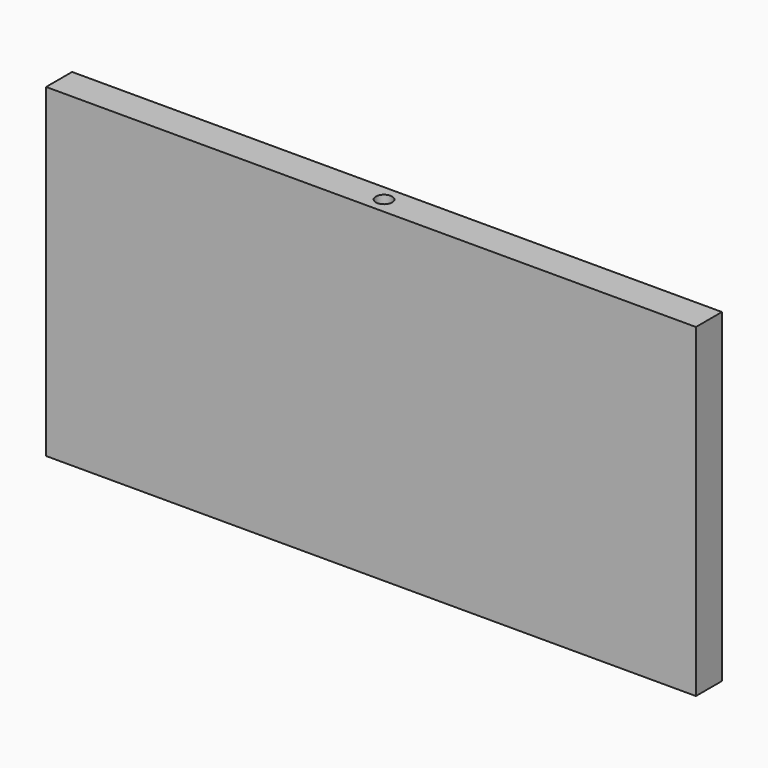
from build123d import *

# Parameters (mm, degrees)
F0_W     = 200
F0_H     = 100
F1_DEPTH = 5
F2_R     = 2.5
F3_DEPTH = 25.4


with BuildPart() as f1:
    # F0 (on Front) → F1 (new body, symmetric)
    with BuildSketch(Plane.XZ):
        Rectangle(F0_W, F0_H)
    extrude(amount=F1_DEPTH, both=True)

    # F2 (on face) → F3 (cut)
    with BuildSketch(Plane.XY.offset(50)):
        Circle(F2_R)
    extrude(amount=-F3_DEPTH, mode=Mode.SUBTRACT)


solid = f1.part
